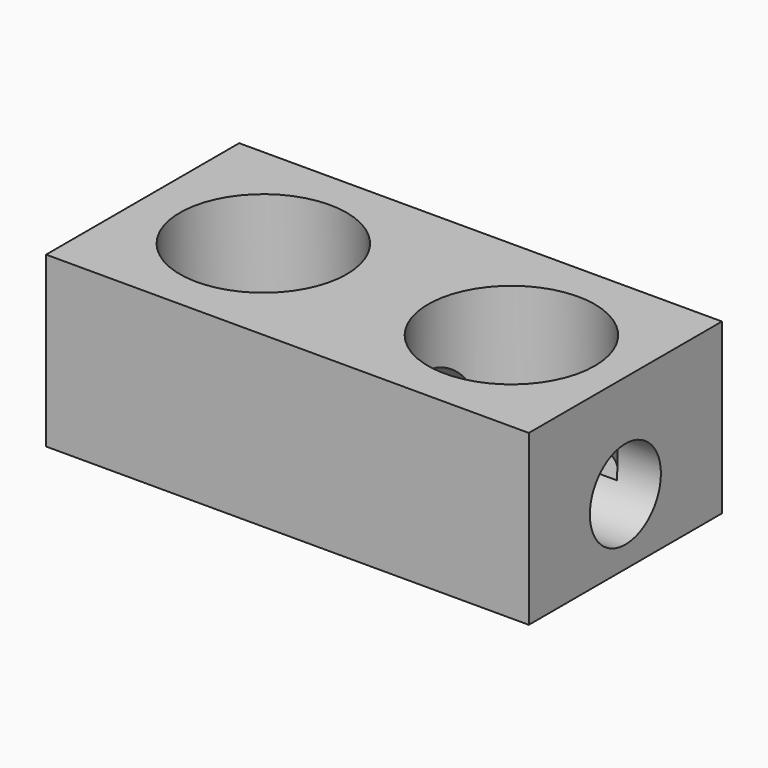
from build123d import *

# Parameters (mm, degrees)
F1_DEPTH = 12.7
F2_R     = 8.7757
F3_DEPTH = 12.7
F4_R     = 4.6736
F5_DEPTH = 12.7


with BuildPart() as f1:
    # F0 (on Front) → F1 (new body, symmetric)
    with BuildSketch(Plane.XZ):
        Polygon((11.991823, 0), (0, 0), (-38.808177, 0), (-38.808177, -17.78), (11.991823, -17.78), align=None)
    extrude(amount=F1_DEPTH, both=True)

    # F2 (on Top) → F3 (cut)
    with BuildSketch(Plane.XY):
        with Locations((-26.108177, 0)):
            Circle(F2_R)
        Circle(F2_R)
    extrude(amount=-F3_DEPTH, mode=Mode.SUBTRACT)

    # F4 (on Right) → F5 (cut, symmetric)
    with BuildSketch(Plane.YZ):
        with Locations((0, -10.830815)):
            Circle(F4_R)
    extrude(amount=F5_DEPTH, both=True, mode=Mode.SUBTRACT)


solid = f1.part
